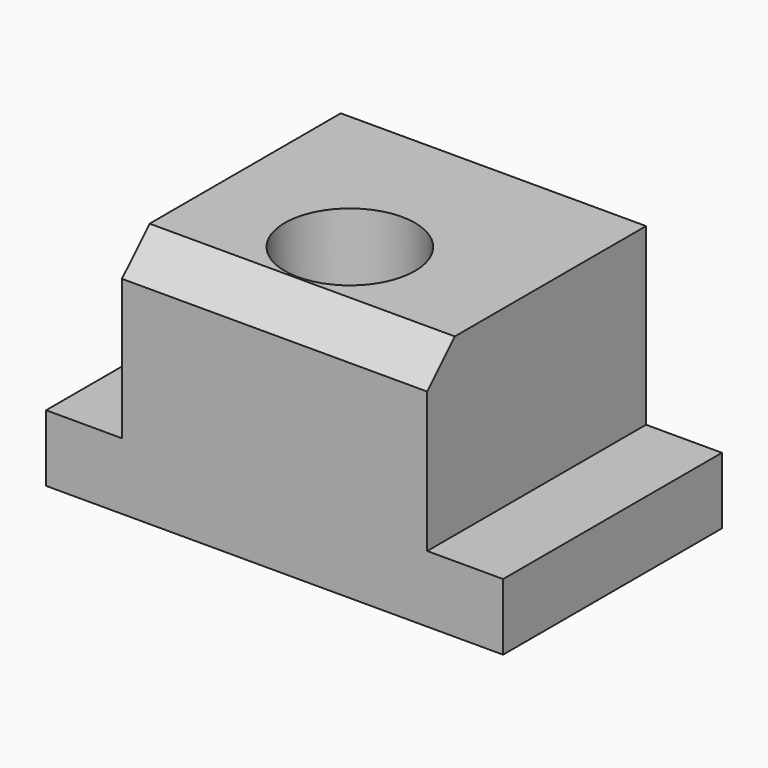
from build123d import *

# Parameters (mm, degrees)
F0_W     = 44.2396106267
F0_H     = 39.6395683834
F1_DEPTH = 35.0012
F0_W_2   = 10.9982
F2_DEPTH = 9.652
F3_SIZE  = 5.0038
F4_R     = 2.3661353078
F5_DEPTH = 12.7
F6_R     = 9.4407644239
F7_DEPTH = 41.91


with BuildPart() as f1:
    # F0 (on Top) → F1 (new body)
    with BuildSketch(Plane.XY):
        with Locations((-6.1320435831, 32.7550717629)):
            Rectangle(F0_W, F0_H)
    extrude(amount=F1_DEPTH)

    # F0 (on Top) → F2 (join)
    with BuildSketch(Plane.XY):
        with Locations((21.4868617302, 32.7550717629)):
            Rectangle(F0_W_2, F0_H)
        with Locations((-33.7509488964, 32.7550717629)):
            Rectangle(F0_W_2, F0_H)
    extrude(amount=F2_DEPTH)

    # F3
    f3_edges = [f1.edges().sort_by_distance(p)[0] for p in [
        (-6.132044, 12.935288, 35.0012),
    ]]
    chamfer(f3_edges, length=F3_SIZE)

    # F4 (on Right) → F5 (join, symmetric)
    with BuildSketch(Plane.YZ):
        with Locations((21.8015406281, 29.3079074472)):
            Circle(F4_R)
    extrude(amount=F5_DEPTH, both=True)

    # F6 (on Top) → F7 (cut, symmetric)
    with BuildSketch(Plane.XY):
        with Locations((-6.9891391322, 27.6436116546)):
            Circle(F6_R)
    extrude(amount=F7_DEPTH, both=True, mode=Mode.SUBTRACT)


solid = f1.part
